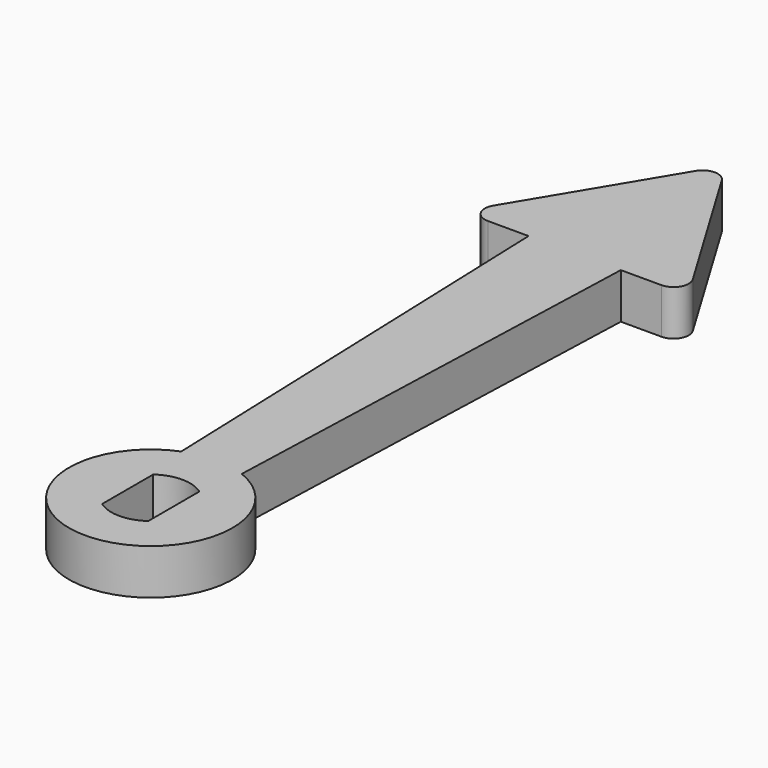
from build123d import *

# Parameters (mm, degrees)
F0_R     = 5.4
F1_DEPTH = 3
F3_DEPTH = 3
F5_DEPTH = 3
F6_R     = 1


with BuildPart() as f1:
    # F0 (on Top) → F1 (new body)
    with BuildSketch(Plane.XY):
        Circle(F0_R)
        with BuildLine():
            ThreePointArc((1.525, 2.1057955741), (2.3157072354, 1.1821590418), (2.6, 0))
            ThreePointArc((2.6, 0), (2.3157072354, -1.1821590418), (1.525, -2.1057955741))
            ThreePointArc((1.525, -2.1057955741), (0, -2.6), (-1.525, -2.1057955741))
            ThreePointArc((-1.525, -2.1057955741), (-2.6, 0), (-1.525, 2.1057955741))
            ThreePointArc((-1.525, 2.1057955741), (0, 2.6), (1.525, 2.1057955741))
        make_face(mode=Mode.SUBTRACT)
        with BuildLine():
            Line((-1.525, -2.1057955741), (-1.525, 2.1057955741))
            ThreePointArc((-1.525, 2.1057955741), (-2.6, 0), (-1.525, -2.1057955741))
        make_face()
        with BuildLine():
            ThreePointArc((1.525, -2.1057955741), (2.3157072354, -1.1821590418), (2.6, 0))
            ThreePointArc((2.6, 0), (2.3157072354, 1.1821590418), (1.525, 2.1057955741))
            Line((1.525, 2.1057955741), (1.525, -2.1057955741))
        make_face()
    extrude(amount=F1_DEPTH)

    # F2 (on Top) → F3 (join, through all)
    with BuildSketch(Plane.XY):
        Polygon((-2, 5.0159744816), (0, 5.0159744816), (2, 5.0159744816), (3.0470652436, 35), (0, 35), (-3.0470652436, 35), align=None)
    extrude(amount=F3_DEPTH)

    # F4 (on Top) → F5 (join, through all)
    with BuildSketch(Plane.XY):
        Polygon((0, 47.5), (-7.5, 35), (7.5, 35), align=None)
    extrude(amount=F5_DEPTH)

    # F6
    f6_edges = [f1.edges().sort_by_distance(p)[0] for p in [
        (0, 47.5, 1.5),
        (-7.5, 35, 1.5),
        (7.5, 35, 1.5),
    ]]
    fillet(f6_edges, radius=F6_R)


solid = f1.part
